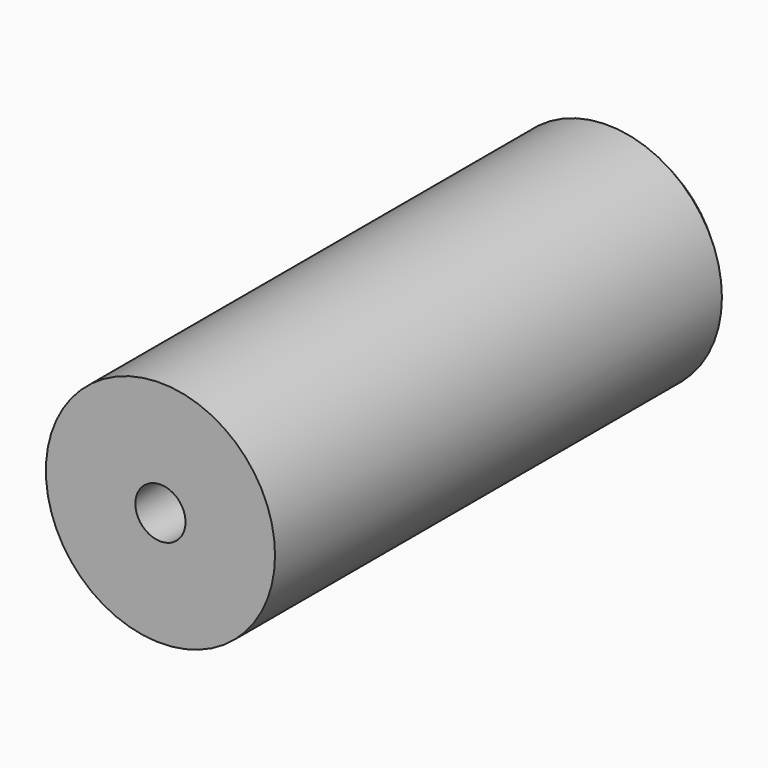
from build123d import *

# Parameters (mm, degrees)
F0_R     = 40
F1_DEPTH = 100
F2_SIZE  = 5
F4_D     = 17.5
F4_DEPTH = 19.5
F4_TIP   = 5.2575304165


with BuildPart() as f1:
    # F0 (on Front) → F1 (new body, symmetric)
    with BuildSketch(Plane.XZ):
        Circle(F0_R)
    extrude(amount=F1_DEPTH, both=True)

    # F2
    f2_edges = [f1.edges().sort_by_distance(p)[0] for p in [
        (-40, 100, 0),
    ]]
    chamfer(f2_edges, length=F2_SIZE)

    # F4
    with Locations(Plane.XZ.offset(100)):
        with Locations((0, 0)):
            Hole(F4_D / 2, depth=F4_DEPTH)
            with Locations((0, 0, -(F4_DEPTH + F4_TIP / 2))):  # 118° drill point
                Cone(0, F4_D / 2, F4_TIP, mode=Mode.SUBTRACT)


solid = f1.part
